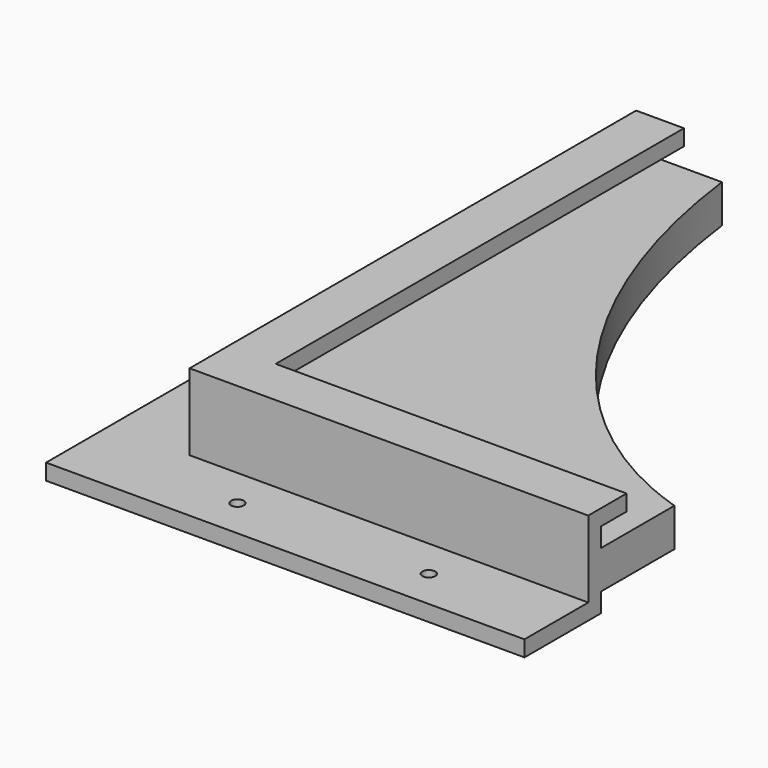
from build123d import *

# Parameters (mm, degrees)
F1_DEPTH  = 12
F2_W      = 150
F2_H      = 24
F3_DEPTH  = 5
F4_W      = 205
F4_H      = 24
F5_DEPTH  = 5
F6_R      = 2
F7_DEPTH  = 5
F9_DEPTH  = 5
F10_W     = 30
F10_H     = 30
F10_W_2   = 150
F10_H_2   = 200
F11_DEPTH = 25


with BuildPart() as f1:
    # F0 (on Top) → F1 (new body)
    with BuildSketch(Plane.XY):
        with BuildLine():
            add(Edge.make_bspline(
                [(-130, 0), (-130, -176), (0, -176)],
                knots=[1.5707963268, 1.5707963268, 1.5707963268, 3.1415926536, 3.1415926536, 3.1415926536], degree=2, weights=[1, 0.7071067812, 1]))
            Line((-130, 0), (-130, -176))
            Line((-130, -176), (0, -176))
        make_face()
        Polygon((-130, -176), (-130, 0), (-150, 0), (-150, -200), (0, -200), (0, -176), align=None)
    extrude(amount=F1_DEPTH)

    # F2 (on face) → F3 (join)
    with BuildSketch(Plane.XZ.offset(200)):
        with Locations((-75, 6)):
            Rectangle(F2_W, F2_H)
    extrude(amount=F3_DEPTH)

    # F4 (on face) → F5 (join)
    with BuildSketch(Plane(origin=(-150, 0, 0), x_dir=(0, -1, 0), z_dir=(-1, 0, 0))):
        with Locations((102.5, 6)):
            Rectangle(F4_W, F4_H)
    extrude(amount=F5_DEPTH)

    # F6 (on face) → F7 (join)
    with BuildSketch(Plane(origin=(0, 0, -6), x_dir=(1, 0, 0), z_dir=(0, 0, -1))):
        Polygon((0, 205), (0, 230), (-180, 230), (-180, 0), (-155, 0), (-155, 205), align=None)
        with Locations((-167.5, 80)):
            Circle(F6_R, mode=Mode.SUBTRACT)
        with Locations((-167.5, 180)):
            Circle(F6_R, mode=Mode.SUBTRACT)
        with Locations((-130, 217.5)):
            Circle(F6_R, mode=Mode.SUBTRACT)
        with Locations((-70, 217.5)):
            Circle(F6_R, mode=Mode.SUBTRACT)
    extrude(amount=-F7_DEPTH)

    # F8 (on face) → F9 (join)
    with BuildSketch(Plane.XY.offset(18)):
        Polygon((-140, 0), (-155, 0), (-155, -205), (0, -205), (0, -190), (-140, -190), align=None)
    extrude(amount=F9_DEPTH)

    # F10 (on Top) → F11 (cut, symmetric)
    with BuildSketch(Plane.XY):
        with Locations((-15, -15)):
            Rectangle(F10_W, F10_H)
        with Locations((-105, -15)):
            Rectangle(F10_W_2, F10_H)
        with Locations((-15, -130)):
            Rectangle(F10_W, F10_H_2)
    extrude(amount=F11_DEPTH, both=True, mode=Mode.SUBTRACT)


solid = f1.part
